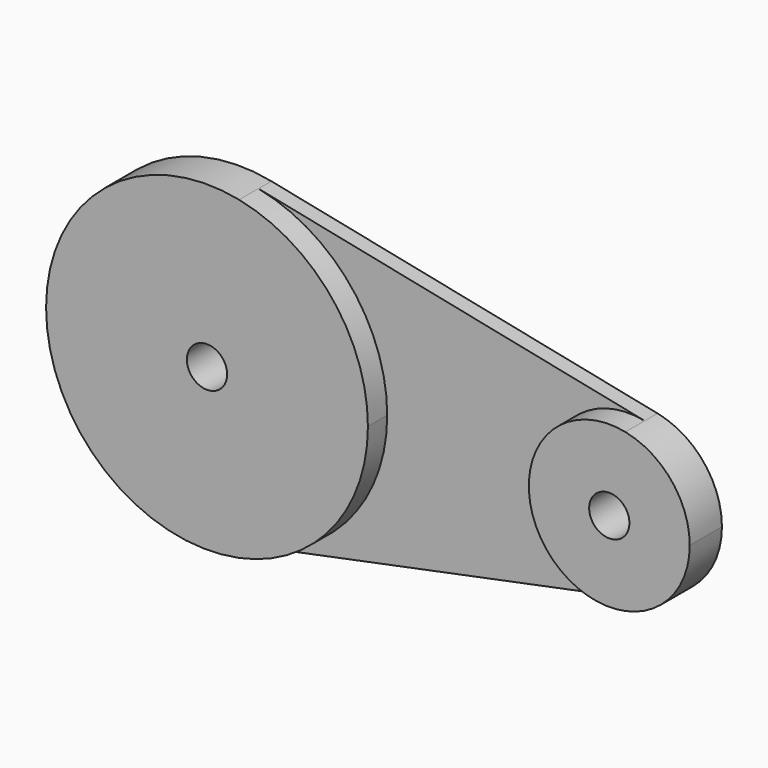
from build123d import *

# Parameters (mm, degrees)
F0_R     = 6.35
F1_DEPTH = 12.7
F2_DEPTH = 5.08
F3_DEPTH = 101.6


with BuildPart() as f1:
    # F0 (on Front) → F1 (new body)
    with BuildSketch(Plane.XZ):
        with BuildLine():
            ThreePointArc((152.4, 0), (146.674755, 16.064371), (132.08, 24.886816))
            ThreePointArc((132.08, 24.886816), (101.6, 0), (132.08, -24.886816))
            ThreePointArc((132.08, -24.886816), (146.674755, -16.064371), (152.4, 0))
        make_face()
        with Locations((127, 0)):
            Circle(F0_R, mode=Mode.SUBTRACT)
        with BuildLine():
            ThreePointArc((10.16, -49.773632), (39.349511, -32.128741), (50.8, 0))
            ThreePointArc((50.8, 0), (39.349511, 32.128741), (10.16, 49.773632))
            ThreePointArc((10.16, 49.773632), (-50.8, 0), (10.16, -49.773632))
        make_face()
        Circle(F0_R, mode=Mode.SUBTRACT)
    extrude(amount=F1_DEPTH)

    # F0 (on Front) → F2 (join)
    with BuildSketch(Plane.XZ):
        with BuildLine():
            ThreePointArc((10.16, 49.773632), (39.349511, 32.128741), (50.8, 0))
            ThreePointArc((50.8, 0), (39.349511, -32.128741), (10.16, -49.773632))
            Line((10.16, -49.773632), (132.08, -24.886816))
            ThreePointArc((132.08, -24.886816), (101.6, 0), (132.08, 24.886816))
            Line((132.08, 24.886816), (10.16, 49.773632))
        make_face()
    extrude(amount=F2_DEPTH)

    # F0 (on Front) → F3 (cut)
    with BuildSketch(Plane.XZ):
        Circle(F0_R)
    extrude(amount=F3_DEPTH, mode=Mode.SUBTRACT)


solid = f1.part
